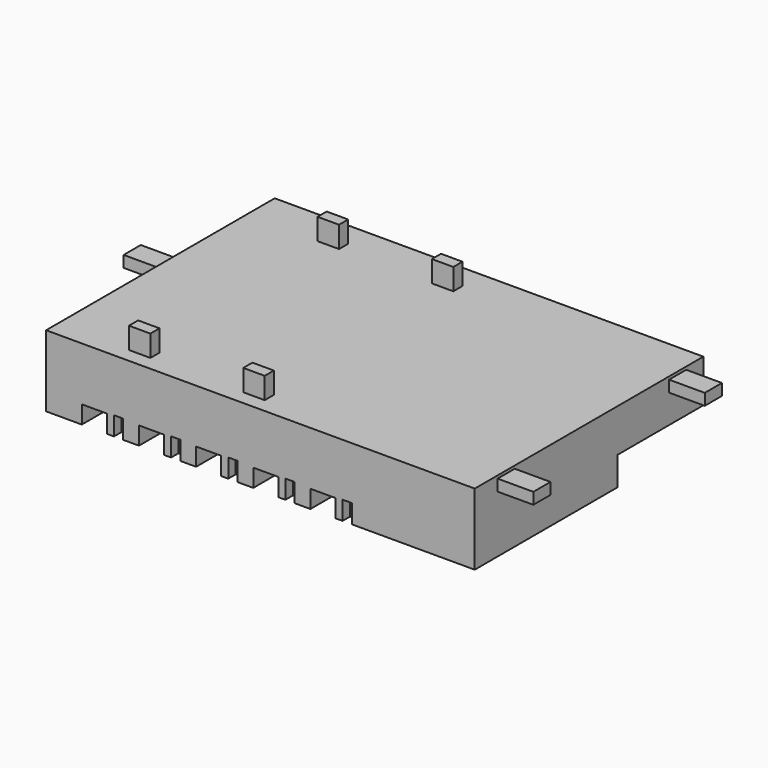
from build123d import *

# Parameters (mm, degrees)
BOX011_W     = 3048
BOX011_H     = 4572
BOX011_DEPTH = 1219.2
BOX006_W     = 1066.8
BOX006_H     = 1981.2
BOX006_DEPTH = 762
BOX005_W     = 396.24
BOX005_H     = 396.24
BOX005_DEPTH = 798.576
BOX007_W     = 1066.8
BOX007_H     = 1981.2
BOX007_DEPTH = 762
BOX008_W     = 396.24
BOX008_H     = 396.24
BOX008_DEPTH = 798.576
BOX010_W     = 1066.8
BOX010_H     = 1981.2
BOX010_DEPTH = 762
BOX009_W     = 396.24
BOX009_H     = 396.24
BOX009_DEPTH = 798.576
BOX001_W     = 1066.8
BOX001_H     = 1981.2
BOX001_DEPTH = 762
BOX002_W     = 396.24
BOX002_H     = 396.24
BOX002_DEPTH = 798.576
BOX003_W     = 1066.8
BOX003_H     = 1981.2
BOX003_DEPTH = 762
BOX004_W     = 396.24
BOX004_H     = 396.24
BOX004_DEPTH = 798.576
BOX017_W     = 914.4
BOX017_H     = 487.68
BOX017_DEPTH = 1219.2
BOX018_W     = 914.4
BOX018_H     = 487.68
BOX018_DEPTH = 1219.2
BOX019_W     = 914.4
BOX019_H     = 487.68
BOX019_DEPTH = 1219.2
BOX016_W     = 914.4
BOX016_H     = 487.68
BOX016_DEPTH = 1219.2
BOX012_W     = 2438.4
BOX012_H     = 914.4
BOX012_DEPTH = 487.68
BOX013_W     = 2438.4
BOX013_H     = 914.4
BOX013_DEPTH = 487.68
BOX020_W     = 2438.4
BOX020_H     = 914.4
BOX020_DEPTH = 487.68
BOX_W        = 18288
BOX_H        = 12192
BOX_DEPTH    = 3048


with BuildPart() as nurse_station:
    # Box011 → Box011 (new body)
    with BuildSketch(Plane(origin=(15240, 7620, 0), x_dir=(1, 0, 0), z_dir=(0, 0, 1))):
        with Locations((1524, 2286)):
            Rectangle(BOX011_W, BOX011_H)
    extrude(amount=BOX011_DEPTH)


with BuildPart() as box006:
    # Box006 → Box006 (new body)
    with BuildSketch(Plane.XY):
        with Locations((533.4, 990.6)):
            Rectangle(BOX006_W, BOX006_H)
    extrude(amount=BOX006_DEPTH)


with BuildPart() as fusion002:
    # Box005 → Box005 (new body)
    with BuildSketch(Plane(origin=(1371.6, 0, 0), x_dir=(1, 0, 0), z_dir=(0, 0, 1))):
        with Locations((198.12, 198.12)):
            Rectangle(BOX005_W, BOX005_H)
    extrude(amount=BOX005_DEPTH)

    # Fusion002: union Box006
    add(box006.part)


with BuildPart() as fusion002_1:
    # Fusion002 placement: moved
    add(fusion002.part.moved(Location((4876.8, 0, 0))))


with BuildPart() as box007:
    # Box007 → Box007 (new body)
    with BuildSketch(Plane.XY):
        with Locations((533.4, 990.6)):
            Rectangle(BOX007_W, BOX007_H)
    extrude(amount=BOX007_DEPTH)


with BuildPart() as fusion003:
    # Box008 → Box008 (new body)
    with BuildSketch(Plane(origin=(1371.6, 0, 0), x_dir=(1, 0, 0), z_dir=(0, 0, 1))):
        with Locations((198.12, 198.12)):
            Rectangle(BOX008_W, BOX008_H)
    extrude(amount=BOX008_DEPTH)

    # Fusion003: union Box007
    add(box007.part)


with BuildPart() as fusion003_1:
    # Fusion003 placement: moved
    add(fusion003.part.moved(Location((7315.2, 0, 0))))


with BuildPart() as box010:
    # Box010 → Box010 (new body)
    with BuildSketch(Plane.XY):
        with Locations((533.4, 990.6)):
            Rectangle(BOX010_W, BOX010_H)
    extrude(amount=BOX010_DEPTH)


with BuildPart() as fusion004:
    # Box009 → Box009 (new body)
    with BuildSketch(Plane(origin=(1371.6, 0, 0), x_dir=(1, 0, 0), z_dir=(0, 0, 1))):
        with Locations((198.12, 198.12)):
            Rectangle(BOX009_W, BOX009_H)
    extrude(amount=BOX009_DEPTH)

    # Fusion004: union Box010
    add(box010.part)


with BuildPart() as fusion004_1:
    # Fusion004 placement: moved
    add(fusion004.part.moved(Location((9753.6, 0, 0))))


with BuildPart() as box001:
    # Box001 → Box001 (new body)
    with BuildSketch(Plane.XY):
        with Locations((533.4, 990.6)):
            Rectangle(BOX001_W, BOX001_H)
    extrude(amount=BOX001_DEPTH)


with BuildPart() as fusion:
    # Box002 → Box002 (new body)
    with BuildSketch(Plane(origin=(1371.6, 0, 0), x_dir=(1, 0, 0), z_dir=(0, 0, 1))):
        with Locations((198.12, 198.12)):
            Rectangle(BOX002_W, BOX002_H)
    extrude(amount=BOX002_DEPTH)

    # Fusion: union Box001
    add(box001.part)


with BuildPart() as box003:
    # Box003 → Box003 (new body)
    with BuildSketch(Plane.XY):
        with Locations((533.4, 990.6)):
            Rectangle(BOX003_W, BOX003_H)
    extrude(amount=BOX003_DEPTH)


with BuildPart() as right_beds:
    # Box004 → Box004 (new body)
    with BuildSketch(Plane(origin=(1371.6, 0, 0), x_dir=(1, 0, 0), z_dir=(0, 0, 1))):
        with Locations((198.12, 198.12)):
            Rectangle(BOX004_W, BOX004_H)
    extrude(amount=BOX004_DEPTH)

    # Fusion001: union Box003
    add(box003.part)


with BuildPart() as right_beds_1:
    # Fusion001 placement: moved
    add(right_beds.part.moved(Location((2438.4, 0, 0))))

    # Fusion005: union Fusion002, Fusion003, Fusion004, Fusion
    add(fusion002_1.part)
    add(fusion003_1.part)
    add(fusion004_1.part)
    add(fusion.part)


with BuildPart() as surfaces:
    # Part__Mirroring: instance of right beds
    add(right_beds_1.part.mirror(Plane(origin=(0, 6096, 0), x_dir=(1, 0, 0), z_dir=(0, 1, 0))))

    # Fusion006: union right beds
    add(right_beds_1.part)


with BuildPart() as surfaces_1:
    # Fusion006 placement: moved
    add(surfaces.part.moved(Location((1524, 0, 0))))

    # Fusion010: union Nurse Station
    add(nurse_station.part)


with BuildPart() as branch003:
    # Box017 → Box017 (new body)
    with BuildSketch(Plane(origin=(7924.8, 10668, 2743.2), x_dir=(1, 0, 0), z_dir=(0, 0, 1))):
        with Locations((457.2, 243.84)):
            Rectangle(BOX017_W, BOX017_H)
    extrude(amount=BOX017_DEPTH)


with BuildPart() as branch004:
    # Box018 → Box018 (new body)
    with BuildSketch(Plane(origin=(3048, 609.6, 2743.2), x_dir=(1, 0, 0), z_dir=(0, 0, 1))):
        with Locations((457.2, 243.84)):
            Rectangle(BOX018_W, BOX018_H)
    extrude(amount=BOX018_DEPTH)


with BuildPart() as branch005:
    # Box019 → Box019 (new body)
    with BuildSketch(Plane(origin=(3048, 10668, 2743.2), x_dir=(1, 0, 0), z_dir=(0, 0, 1))):
        with Locations((457.2, 243.84)):
            Rectangle(BOX019_W, BOX019_H)
    extrude(amount=BOX019_DEPTH)


with BuildPart() as branch_ducts:
    # Box016 → Box016 (new body)
    with BuildSketch(Plane(origin=(7924.8, 609.6, 2743.2), x_dir=(1, 0, 0), z_dir=(0, 0, 1))):
        with Locations((457.2, 243.84)):
            Rectangle(BOX016_W, BOX016_H)
    extrude(amount=BOX016_DEPTH)

    # Fusion011: union branch003, branch004, branch005
    add(branch003.part)
    add(branch004.part)
    add(branch005.part)


with BuildPart() as main_inlet:
    # Box012 → Box012 (new body)
    with BuildSketch(Plane(origin=(17373.6, 1219.2, 2438.4), x_dir=(1, 0, 0), z_dir=(0, 0, 1))):
        with Locations((1219.2, 457.2)):
            Rectangle(BOX012_W, BOX012_H)
    extrude(amount=BOX012_DEPTH)


with BuildPart() as main_outlet:
    # Box013 → Box013 (new body)
    with BuildSketch(Plane(origin=(-1524, 6040.43496, 2438.4), x_dir=(1, 0, 0), z_dir=(0, 0, 1))):
        with Locations((1219.2, 457.2)):
            Rectangle(BOX013_W, BOX013_H)
    extrude(amount=BOX013_DEPTH)


with BuildPart() as fusion013:
    # Box020 → Box020 (new body)
    with BuildSketch(Plane(origin=(17373.6, 10363.2, 2438.4), x_dir=(1, 0, 0), z_dir=(0, 0, 1))):
        with Locations((1219.2, 457.2)):
            Rectangle(BOX020_W, BOX020_H)
    extrude(amount=BOX020_DEPTH)

    # Fusion012: union main inlet, main outlet
    add(main_inlet.part)
    add(main_outlet.part)

    # Fusion013: union branch_ducts
    add(branch_ducts.part)


with BuildPart() as cut:
    # Box → Box (new body)
    with BuildSketch(Plane.XY):
        with Locations((9144, 6096)):
            Rectangle(BOX_W, BOX_H)
    extrude(amount=BOX_DEPTH)

    # Fusion014: union Fusion013
    add(fusion013.part)

    # Cut: cut surfaces
    add(surfaces_1.part, mode=Mode.SUBTRACT)


solid = cut.part
